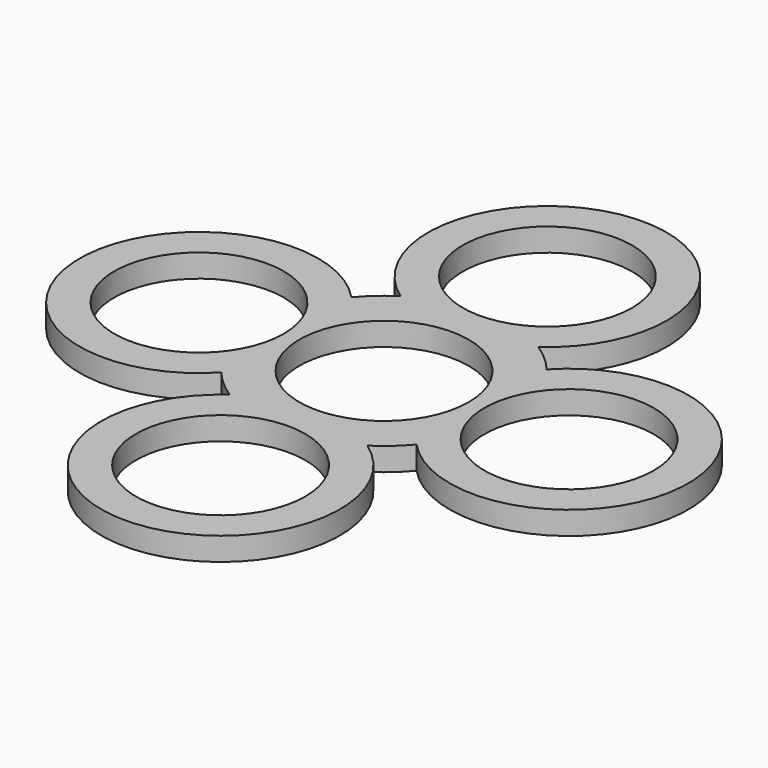
from build123d import *

# Parameters (mm, degrees)
F0_R     = 11
F1_DEPTH = 3


with BuildPart() as f1:
    # F0 (on Top) → F1 (new body)
    with BuildSketch(Plane.XY):
        with BuildLine():
            ThreePointArc((12.678939, -10.559095), (39.525988, 0), (12.678939, 10.559095))
            ThreePointArc((12.678939, 10.559095), (10.937774, 12.353749), (8.945413, 13.864688))
            ThreePointArc((8.945413, 13.864688), (0, 42.022871), (-8.945413, 13.864688))
            ThreePointArc((-8.945413, 13.864688), (-10.937774, 12.353749), (-12.678939, 10.559095))
            ThreePointArc((-12.678939, 10.559095), (-39.525988, 0), (-12.678939, -10.559095))
            ThreePointArc((-12.678939, -10.559095), (-10.937774, -12.353749), (-8.945413, -13.864688))
            ThreePointArc((-8.945413, -13.864688), (0, -42.022871), (8.945413, -13.864688))
            ThreePointArc((8.945413, -13.864688), (10.937774, -12.353749), (12.678939, -10.559095))
        make_face()
        with Locations((0, -26.522871)):
            Circle(F0_R, mode=Mode.SUBTRACT)
        with Locations((-24.025988, 0)):
            Circle(F0_R, mode=Mode.SUBTRACT)
        Circle(F0_R, mode=Mode.SUBTRACT)
        with Locations((24.025988, 0)):
            Circle(F0_R, mode=Mode.SUBTRACT)
        with Locations((0, 26.522871)):
            Circle(F0_R, mode=Mode.SUBTRACT)
    extrude(amount=F1_DEPTH)


solid = f1.part
